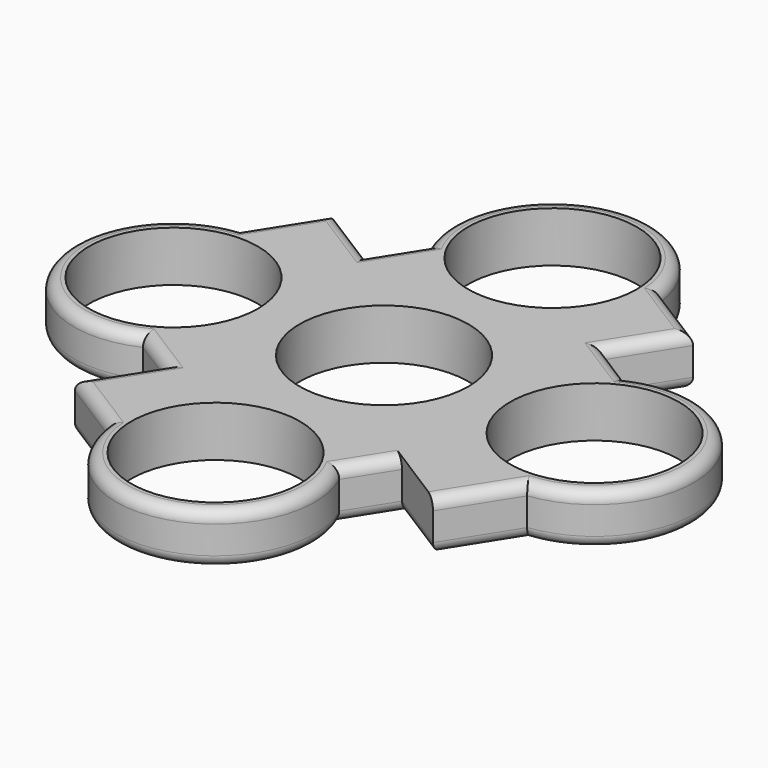
from build123d import *

# Parameters (mm, degrees)
F0_R     = 11.2
F1_DEPTH = 6.7
F2_R     = 1.5
F3_R     = 1.5


with BuildPart() as f1:
    # F0 (on Top) → F1 (new body)
    with BuildSketch(Plane.XY):
        with BuildLine():
            Line((21.834791, 23.972463), (13.109393, 29.486381))
            ThreePointArc((13.109393, 29.486381), (-3.58944, 40.645018), (-11.978707, 22.397103))
            Line((-11.978707, 22.397103), (-15.655433, 16.578936))
            Line((-15.655433, 16.578936), (-23.972463, 21.834791))
            Line((-23.972463, 21.834791), (-29.486381, 13.109393))
            ThreePointArc((-29.486381, 13.109393), (-40.645018, -3.58944), (-22.397103, -11.978707))
            Line((-22.397103, -11.978707), (-16.578936, -15.655433))
            Line((-16.578936, -15.655433), (-21.834791, -23.972463))
            Line((-21.834791, -23.972463), (-13.109393, -29.486381))
            ThreePointArc((-13.109393, -29.486381), (3.58944, -40.645018), (11.978707, -22.397103))
            Line((11.978707, -22.397103), (15.655433, -16.578936))
            Line((15.655433, -16.578936), (23.972463, -21.834791))
            Line((23.972463, -21.834791), (29.486381, -13.109393))
            ThreePointArc((29.486381, -13.109393), (40.645018, 3.58944), (22.397103, 11.978707))
            Line((22.397103, 11.978707), (16.578936, 15.655433))
            Line((16.578936, 15.655433), (21.834791, 23.972463))
        make_face()
        with Locations((0, -27.942423)):
            Circle(F0_R, mode=Mode.SUBTRACT)
        with Locations((-27.942423, 0)):
            Circle(F0_R, mode=Mode.SUBTRACT)
        Circle(F0_R, mode=Mode.SUBTRACT)
        with Locations((27.942423, 0)):
            Circle(F0_R, mode=Mode.SUBTRACT)
        with Locations((0, 27.942423)):
            Circle(F0_R, mode=Mode.SUBTRACT)
    extrude(amount=F1_DEPTH)

    # F2
    f2_edges = [f1.edges().sort_by_distance(p)[0] for p in [
        (17.472092, 26.729422, 6.7),
        (-3.58944, 40.645018, 6.7),
        (19.488019, 13.81707, 6.7),
        (19.206863, 19.813948, 6.7),
        (40.645018, 3.58944, 6.7),
        (26.729422, -17.472092, 6.7),
        (13.81707, -19.488019, 6.7),
        (3.58944, -40.645018, 6.7),
        (-17.472092, -26.729422, 6.7),
        (-19.488019, -13.81707, 6.7),
        (-19.206863, -19.813948, 6.7),
        (-40.645018, -3.58944, 6.7),
        (-26.729422, 17.472092, 6.7),
        (-13.81707, 19.488019, 6.7),
        (-19.813948, 19.206863, 6.7),
    ]]
    fillet(f2_edges, radius=F2_R)

    # F3
    f3_edges = [f1.edges().sort_by_distance(p)[0] for p in [
        (3.58944, -40.645018, 0),
        (13.81707, -19.488019, 0),
        (19.813948, -19.206863, 0),
        (40.645018, 3.58944, 0),
        (26.729422, -17.472092, 0),
        (19.488019, 13.81707, 0),
        (19.206863, 19.813948, 0),
        (17.472092, 26.729422, 0),
        (-3.58944, 40.645018, 0),
        (-13.81707, 19.488019, 0),
        (-19.813948, 19.206863, 0),
        (-26.729422, 17.472092, 0),
        (-40.645018, -3.58944, 0),
        (-19.488019, -13.81707, 0),
        (-19.206863, -19.813948, 0),
        (-17.472092, -26.729422, 0),
    ]]
    fillet(f3_edges, radius=F3_R)


solid = f1.part
